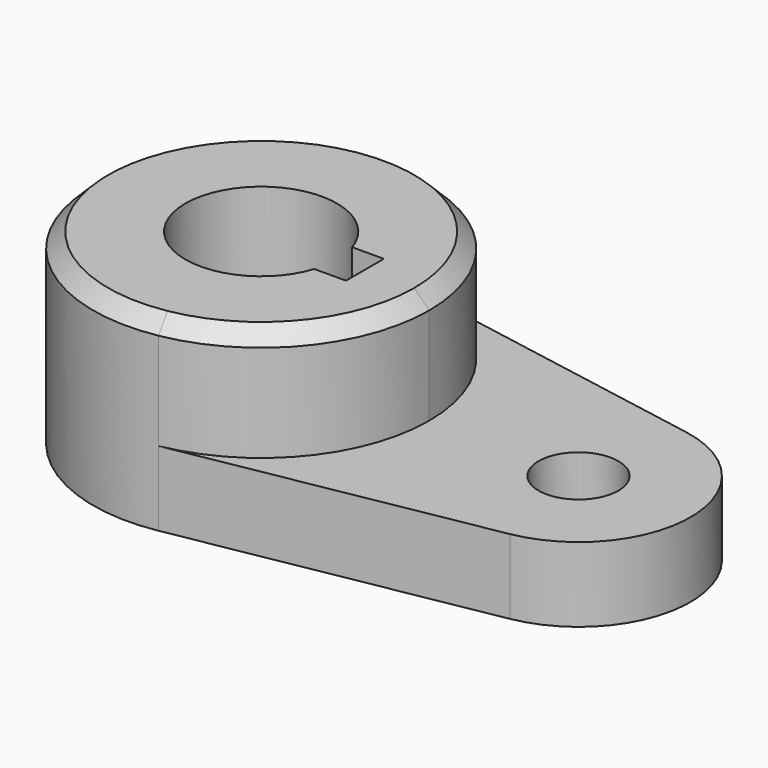
from build123d import *

# Parameters (mm, degrees)
F1_DEPTH = 12.7
F2_DEPTH = 31.75
F3_R     = 6.798406
F4_DEPTH = 25.4
F5_SIZE  = 2.54
F7_DEPTH = 31.751


with BuildPart() as f1:
    # F0 (on Top) → F1 (new body)
    with BuildSketch(Plane.XY):
        with BuildLine():
            ThreePointArc((5.042647, -28.126541), (21.916025, -18.336262), (28.575, 0))
            ThreePointArc((28.575, 0), (21.916025, 18.336262), (5.042647, 28.126541))
            ThreePointArc((5.042647, 28.126541), (-28.575, 0), (5.042647, -28.126541))
        make_face()
        with BuildLine():
            ThreePointArc((5.042647, 28.126541), (21.916025, 18.336262), (28.575, 0))
            ThreePointArc((28.575, 0), (21.916025, -18.336262), (5.042647, -28.126541))
            Line((5.042647, -28.126541), (57.336765, -18.751028))
            ThreePointArc((57.336765, -18.751028), (73.025, 0), (57.336765, 18.751028))
            Line((57.336765, 18.751028), (5.042647, 28.126541))
        make_face()
    extrude(amount=F1_DEPTH)

    # F0 (on Top) → F2 (join)
    with BuildSketch(Plane.XY):
        with BuildLine():
            ThreePointArc((5.042647, -28.126541), (21.916025, -18.336262), (28.575, 0))
            ThreePointArc((28.575, 0), (21.916025, 18.336262), (5.042647, 28.126541))
            ThreePointArc((5.042647, 28.126541), (-28.575, 0), (5.042647, -28.126541))
        make_face()
    extrude(amount=F2_DEPTH)

    # F3 (on face) → F4 (cut)
    with BuildSketch(Plane.XY.offset(12.7)):
        with Locations((53.975, 0)):
            Circle(F3_R)
    extrude(amount=-F4_DEPTH, mode=Mode.SUBTRACT)

    # F5
    f5_edges = [f1.edges().sort_by_distance(p)[0] for p in [
        (-5.042647, 28.126541, 31.75),
    ]]
    chamfer(f5_edges, length=F5_SIZE)

    # F6 (on face) → F7 (cut, through all)
    with BuildSketch(Plane.XY.offset(31.75)):
        with BuildLine():
            Line((17.635341, 4.024172), (12.259626, 4.024172))
            ThreePointArc((12.259626, 4.024172), (-12.903193, 0), (12.259626, -4.024172))
            Line((12.259626, -4.024172), (17.635341, -4.024172))
            Line((17.635341, -4.024172), (17.635341, 4.024172))
        make_face()
    extrude(amount=-F7_DEPTH, mode=Mode.SUBTRACT)


solid = f1.part
